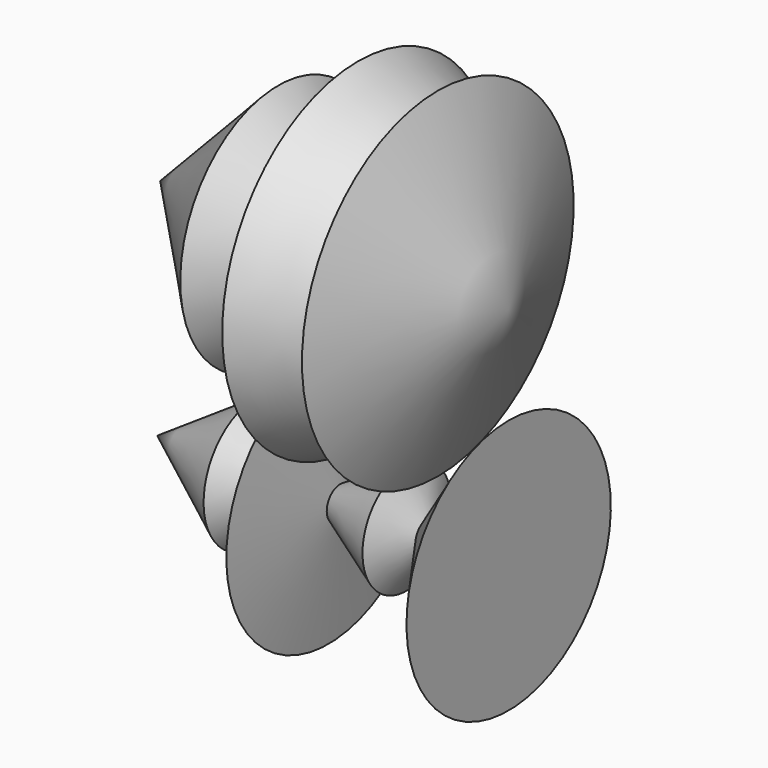
from build123d import *


with BuildPart() as f2:
    # F1 (on Front) → F2 (revolve)
    with BuildSketch(Plane.XZ):
        Polygon((-14.623474, 11.430001), (0, 46.482004), (-71.9328, 46.482004), (-47.548801, 21.183599), (-36.699557, 31.640699), (-31.0896, 11.430001), (-17.678401, 17.8308), align=None)
    revolve(axis=Axis((-35.9664, 0, 46.482004), (-1, 0, 0)))


with BuildPart() as f3:
    # F0 (on Front) → F3 (revolve)
    with BuildSketch(Plane.XZ):
        Polygon((-72.542399, 0), (0, 0), (0, 26.3652), (-16.452427, 3.5052), (-21.031201, 11.430001), (-34.747202, 3.5052), (-37.185602, 26.3652), (-45.72, 8.382), (-52.120801, 13.563599), align=None)
    revolve(axis=Axis((-36.2712, 0, 0), (-1, 0, 0)))


solid = Compound([f2.part, f3.part])
